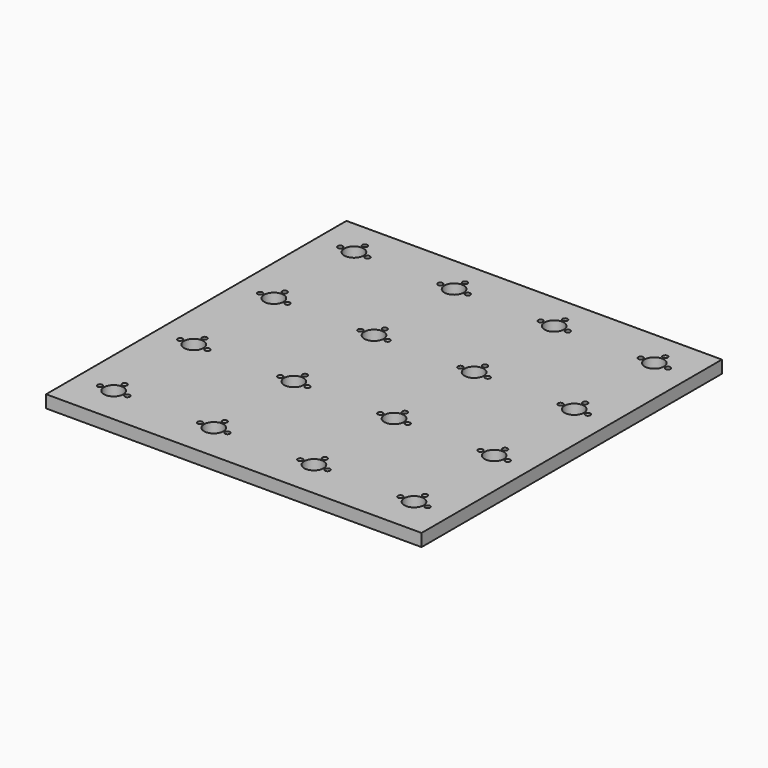
from build123d import *

# Parameters (mm, degrees)
F0_W     = 95.25
F0_H     = 95.25
F0_R     = 2.4511
F1_DEPTH = 3.175
F2_R     = 0.635
F3_DEPTH = 5.08


with BuildPart() as f1:
    # F0 (on Top) → F1 (new body)
    with BuildSketch(Plane.XY):
        Rectangle(F0_W, F0_H)
        with Locations((-38.1, -38.1)):
            Circle(F0_R, mode=Mode.SUBTRACT)
        with Locations((-12.7, -38.1)):
            Circle(F0_R, mode=Mode.SUBTRACT)
        with Locations((-38.1, -12.7)):
            Circle(F0_R, mode=Mode.SUBTRACT)
        with Locations((-12.7, -12.7)):
            Circle(F0_R, mode=Mode.SUBTRACT)
        with Locations((12.7, -38.1)):
            Circle(F0_R, mode=Mode.SUBTRACT)
        with Locations((38.1, -38.1)):
            Circle(F0_R, mode=Mode.SUBTRACT)
        with Locations((12.7, -12.7)):
            Circle(F0_R, mode=Mode.SUBTRACT)
        with Locations((38.1, -12.7)):
            Circle(F0_R, mode=Mode.SUBTRACT)
        with Locations((-38.1, 12.7)):
            Circle(F0_R, mode=Mode.SUBTRACT)
        with Locations((-12.7, 12.7)):
            Circle(F0_R, mode=Mode.SUBTRACT)
        with Locations((-38.1, 38.1)):
            Circle(F0_R, mode=Mode.SUBTRACT)
        with Locations((-12.7, 38.1)):
            Circle(F0_R, mode=Mode.SUBTRACT)
        with Locations((12.7, 12.7)):
            Circle(F0_R, mode=Mode.SUBTRACT)
        with Locations((38.1, 12.7)):
            Circle(F0_R, mode=Mode.SUBTRACT)
        with Locations((12.7, 38.1)):
            Circle(F0_R, mode=Mode.SUBTRACT)
        with Locations((38.1, 38.1)):
            Circle(F0_R, mode=Mode.SUBTRACT)
    extrude(amount=F1_DEPTH)

    # F2 (on face) → F3 (cut)
    with BuildSketch(Plane.XY.offset(3.175)):
        with Locations((-41.5671, 38.1)):
            Circle(F2_R)
        with Locations((-38.1, 41.5671)):
            Circle(F2_R)
        with Locations((-34.6329, 38.1)):
            Circle(F2_R)
        with Locations((-41.5671, 12.7)):
            Circle(F2_R)
        with Locations((-38.1, 16.1671)):
            Circle(F2_R)
        with Locations((-34.6329, 12.7)):
            Circle(F2_R)
        with Locations((-41.5671, -12.7)):
            Circle(F2_R)
        with Locations((-38.1, -9.2329)):
            Circle(F2_R)
        with Locations((-34.6329, -12.7)):
            Circle(F2_R)
        with Locations((-41.5671, -38.1)):
            Circle(F2_R)
        with Locations((-38.1, -34.6329)):
            Circle(F2_R)
        with Locations((-34.6329, -38.1)):
            Circle(F2_R)
        with Locations((-16.1671, 38.1)):
            Circle(F2_R)
        with Locations((-12.7, 41.5671)):
            Circle(F2_R)
        with Locations((-9.2329, 38.1)):
            Circle(F2_R)
        with Locations((-16.1671, 12.7)):
            Circle(F2_R)
        with Locations((-12.7, 16.1671)):
            Circle(F2_R)
        with Locations((-9.2329, 12.7)):
            Circle(F2_R)
        with Locations((-16.1671, -12.7)):
            Circle(F2_R)
        with Locations((-12.7, -9.2329)):
            Circle(F2_R)
        with Locations((-9.2329, -12.7)):
            Circle(F2_R)
        with Locations((-16.1671, -38.1)):
            Circle(F2_R)
        with Locations((-12.7, -34.6329)):
            Circle(F2_R)
        with Locations((-9.2329, -38.1)):
            Circle(F2_R)
        with Locations((9.2329, 38.1)):
            Circle(F2_R)
        with Locations((12.7, 41.5671)):
            Circle(F2_R)
        with Locations((16.1671, 38.1)):
            Circle(F2_R)
        with Locations((9.2329, 12.7)):
            Circle(F2_R)
        with Locations((12.7, 16.1671)):
            Circle(F2_R)
        with Locations((16.1671, 12.7)):
            Circle(F2_R)
        with Locations((9.2329, -12.7)):
            Circle(F2_R)
        with Locations((12.7, -9.2329)):
            Circle(F2_R)
        with Locations((16.1671, -12.7)):
            Circle(F2_R)
        with Locations((9.2329, -38.1)):
            Circle(F2_R)
        with Locations((12.7, -34.6329)):
            Circle(F2_R)
        with Locations((16.1671, -38.1)):
            Circle(F2_R)
        with Locations((34.6329, 38.1)):
            Circle(F2_R)
        with Locations((38.1, 41.5671)):
            Circle(F2_R)
        with Locations((41.5671, 38.1)):
            Circle(F2_R)
        with Locations((34.6329, 12.7)):
            Circle(F2_R)
        with Locations((38.1, 16.1671)):
            Circle(F2_R)
        with Locations((41.5671, 12.7)):
            Circle(F2_R)
        with Locations((34.6329, -12.7)):
            Circle(F2_R)
        with Locations((38.1, -9.2329)):
            Circle(F2_R)
        with Locations((41.5671, -12.7)):
            Circle(F2_R)
        with Locations((34.6329, -38.1)):
            Circle(F2_R)
        with Locations((38.1, -34.6329)):
            Circle(F2_R)
        with Locations((41.5671, -38.1)):
            Circle(F2_R)
    extrude(amount=-F3_DEPTH, mode=Mode.SUBTRACT)


solid = f1.part
